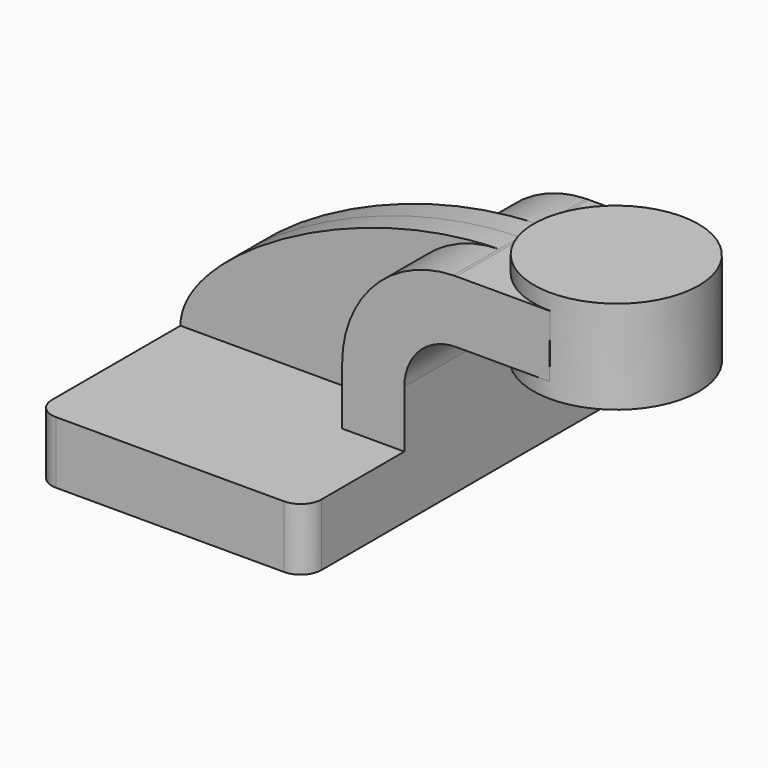
from build123d import *

# Parameters (mm, degrees)
F1_DEPTH = 63.5
F2_DEPTH = 25.4
F3_DEPTH = 7.9375
F5_R     = 6.35


with BuildPart() as f1:
    # F0 (on Front) → F1 (new body, symmetric)
    with BuildSketch(Plane.XZ):
        Polygon((-41.275, -9.525), (41.275, -9.525), (41.275, 9.525), (22.225, 9.525), (-41.275, 9.525), align=None)
    extrude(amount=F1_DEPTH, both=True)

    # F0 (on Front) → F2 (join, symmetric)
    with BuildSketch(Plane.XZ):
        Polygon((60.325, 61.9252), (60.325, 42.8752), (85.7480703479, 42.8752), (85.8401063105, 61.9252), align=None)
        with BuildLine():
            Line((22.225, 9.525), (41.275, 9.525))
            Line((41.275, 9.525), (41.275, 27.0002))
            ThreePointArc((41.275, 27.0002), (45.9246798487, 38.2255201513), (57.15, 42.8752))
            Line((57.15, 42.8752), (60.325, 42.8752))
            Line((60.325, 42.8752), (60.325, 61.9252))
            Line((60.325, 61.9252), (57.15, 61.9252))
            add(Edge.make_bspline(
                [(56.356848483, 61.9161925488), (56.6214024157, 61.9201926701), (56.8857897727, 61.9231977078), (57.15, 61.9252)],
                knots=[110.870288539, 110.870288539, 110.870288539, 110.870288539, 111.5045361635, 111.5045361635, 111.5045361635, 111.5045361635], degree=3))
            ThreePointArc((56.356848483, 61.9161925488), (32.1754485352, 51.4138724835), (22.225, 27.0002))
            Line((22.225, 27.0002), (22.225, 9.525))
        make_face()
    extrude(amount=F2_DEPTH, both=True)

    # F0 (on Front) → F3 (join, symmetric)
    with BuildSketch(Plane.XZ):
        with BuildLine():
            add(Edge.make_bspline(
                [(-41.275, 9.525), (-41.2244558949, 30.1107989648), (10.1112344326, 61.2169473646), (56.356848483, 61.9161925488)],
                knots=[0, 0, 0, 0, 110.870288539, 110.870288539, 110.870288539, 110.870288539], degree=3))
            Line((-41.275, 9.525), (22.225, 9.525))
            Line((22.225, 9.525), (22.225, 27.0002))
            ThreePointArc((22.225, 27.0002), (32.1754485352, 51.4138724835), (56.356848483, 61.9161925488))
        make_face()
    extrude(amount=F3_DEPTH, both=True)

    # F0 (on Front) → F4 (revolve)
    with BuildSketch(Plane.XZ):
        Polygon((85.8401063105, 61.9252), (85.7480703479, 42.8752), (85.725, 38.1), (111.125, 38.1), (111.125, 66.675), (85.8630539438, 66.675), align=None)
    revolve(axis=Axis((85.7940269719, 0, 52.3875), (0.0048312277, 0, 0.9999883296)))

    # F5
    f5_edges = [f1.edges().sort_by_distance(p)[0] for p in [
        (41.275, -63.5, 0),
        (-41.275, -63.5, 0),
        (41.275, 63.5, 0),
        (-41.275, 63.5, 0),
    ]]
    fillet(f5_edges, radius=F5_R)


solid = f1.part
